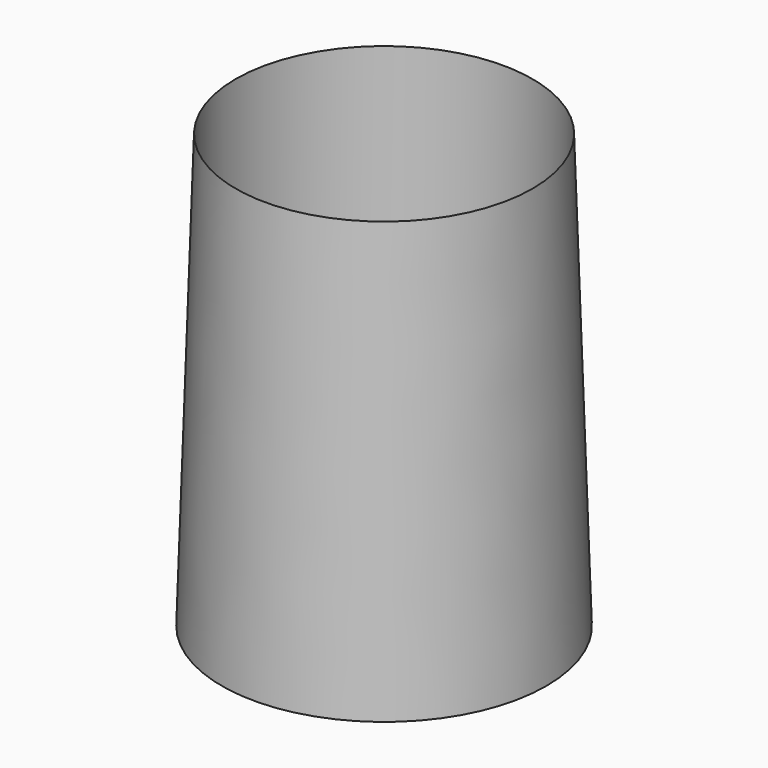
from build123d import *

# Parameters (mm, degrees)
F0_R     = 7.025
F0_R_2   = 6.425
F1_DEPTH = 25


with BuildPart() as f1:
    # F0 (on Top) → F1 (new body)
    with BuildSketch(Plane.XY):
        Circle(F0_R)
        Circle(F0_R_2, mode=Mode.SUBTRACT)
    extrude(amount=F1_DEPTH)

    # F2 (on Front) → F3 (revolve, cut)
    with BuildSketch(Plane.XZ):
        Polygon((7.025, 0), (7.025, 25), (6.225, 25), align=None)
    revolve(axis=Axis((0, 0, 0), (0, 0, 1)), mode=Mode.SUBTRACT)


solid = f1.part
